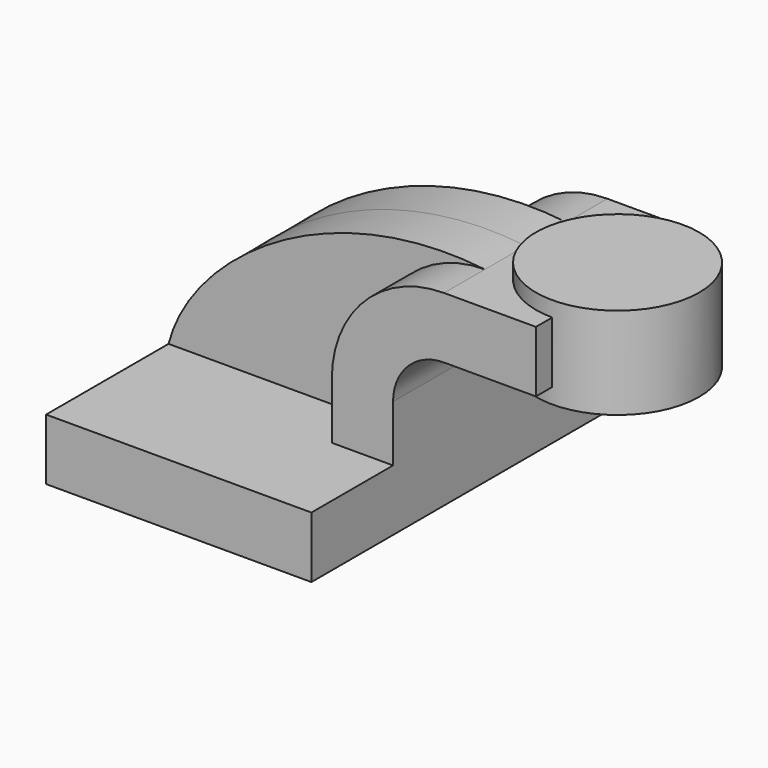
from build123d import *

# Parameters (mm, degrees)
F1_DEPTH = 63.5
F0_W     = 25.4
F0_H     = 19.05
F2_DEPTH = 31.75
F4_DEPTH = 15.875


with BuildPart() as f1:
    # F0 (on Front) → F1 (new body, symmetric)
    with BuildSketch(Plane.XZ):
        Polygon((22.225, 9.525), (-41.275, 9.525), (-41.275, -9.525), (41.275, -9.525), (41.275, 9.525), align=None)
    extrude(amount=F1_DEPTH, both=True)

    # F0 (on Front) → F2 (join, symmetric)
    with BuildSketch(Plane.XZ):
        with BuildLine():
            Line((22.225, 27.0002), (22.225, 9.525))
            Line((22.225, 9.525), (41.275, 9.525))
            Line((41.275, 9.525), (41.275, 27.0002))
            ThreePointArc((41.275, 27.0002), (45.9246798487, 38.2255201513), (57.15, 42.8752))
            Line((57.15, 42.8752), (60.325, 42.8752))
            Line((60.325, 42.8752), (60.325, 61.9252))
            Line((60.325, 61.9252), (57.15, 61.9252))
            ThreePointArc((57.15, 61.9252), (32.4542956671, 51.6959043329), (22.225, 27.0002))
        make_face()
        with Locations((73.025, 52.4002)):
            Rectangle(F0_W, F0_H)
        with Locations((73.025, 52.4002)):
            Rectangle(F0_W, F0_H)
    extrude(amount=F2_DEPTH, both=True)

    # F0 (on Front) → F3 (revolve)
    with BuildSketch(Plane.XZ):
        Polygon((85.725, 66.675), (85.725, 61.9252), (85.725, 42.8752), (85.725, 38.1), (111.125, 38.1), (111.125, 66.675), align=None)
    revolve(axis=Axis((85.725, 0, 52.3875), (0, 0, 1)))

    # F0 (on Front) → F4 (join, symmetric)
    with BuildSketch(Plane.XZ):
        with BuildLine():
            add(Edge.make_bspline(
                [(-41.275, 9.525), (-34.2721380293, 37.1860302985), (7.8561343253, 67.5534531474), (57.15, 61.9252)],
                knots=[0, 0, 0, 0, 111.5045361635, 111.5045361635, 111.5045361635, 111.5045361635], degree=3))
            Line((-41.275, 9.525), (22.225, 9.525))
            Line((22.225, 9.525), (22.225, 27.0002))
            ThreePointArc((22.225, 27.0002), (32.4542956671, 51.6959043329), (57.15, 61.9252))
        make_face()
    extrude(amount=F4_DEPTH, both=True)


solid = f1.part
